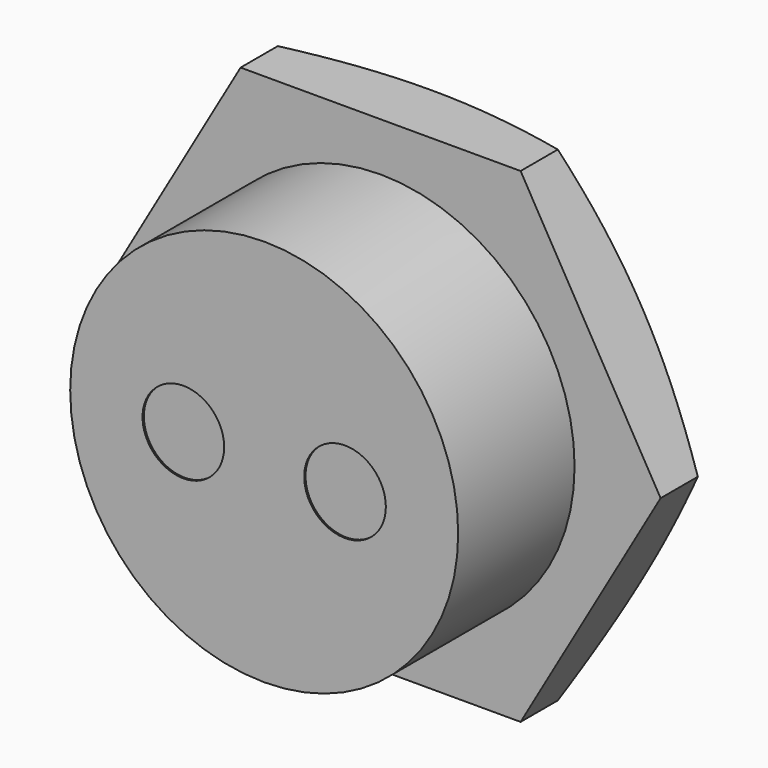
from build123d import *

# Parameters (mm, degrees)
PAD012_DEPTH    = 5.08
SKETCH059_R     = 15.24
PAD013_DEPTH    = 11.43
SKETCH065_R     = 3.20675
POCKET010_DEPTH = 0.127


with BuildPart() as part:
    # Sketch058 → Pad012 (new body)
    with BuildSketch(Plane.XZ):
        Polygon((21.997045, 0), (10.998523, 19.05), (-10.998523, 19.05), (-21.997045, 0), (-10.998523, -19.05), (10.998523, -19.05), align=None)
    extrude(amount=PAD012_DEPTH)

    # Sketch059 (on Face8 of Pad012) → Pad013 (join)
    with BuildSketch(Plane.XZ.offset(5.08)):
        Circle(SKETCH059_R)
    extrude(amount=PAD013_DEPTH)

    # Sketch062 → Groove002 (revolve, cut)
    with BuildSketch(Plane.YZ):
        Polygon((-3.874167, 27.49752), (3.874167, 10.09448), (15.071476, 25.506253), align=None)
    revolve(axis=Axis((0, 0, 0), (0, 1, 0)), mode=Mode.SUBTRACT)

    # Sketch065 (on Face11 of Groove002) → Pocket010 (cut)
    with BuildSketch(Plane.XZ.offset(16.51)):
        with Locations((6.35, 0)):
            Circle(SKETCH065_R)
        with Locations((-6.35, 0)):
            Circle(SKETCH065_R)
    extrude(amount=-POCKET010_DEPTH, mode=Mode.SUBTRACT)


with BuildPart() as part_1:
    # Body009 placement: moved
    add(part.part.moved(Location((17.78, 159.385, 0))))


solid = part_1.part
